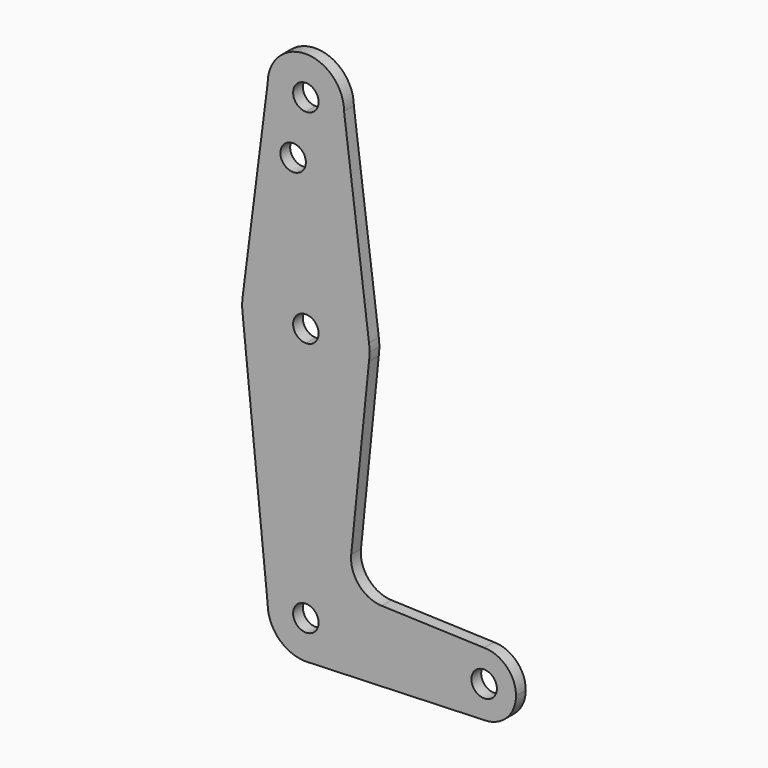
from build123d import *

# Parameters (mm, degrees)
F0_R     = 3.175
F1_DEPTH = 3.048


with BuildPart() as f1:
    # F0 (on Front) → F1 (new body)
    with BuildSketch(Plane.XZ):
        with BuildLine():
            ThreePointArc((3.175, 0), (-2.2450640303, -2.2450640303), (0, 3.175))
            Line((0, 3.175), (0, 9.525))
            ThreePointArc((0, 9.525), (-6.7351920908, 6.7351920908), (-9.525, 0))
            ThreePointArc((-9.525, 0), (-6.7351920908, -6.7351920908), (0, -9.525))
            Line((0, -9.525), (0.6794904459, -9.5007324841))
            ThreePointArc((0.6794904459, -9.5007324841), (6.9712901065, -6.4905114784), (9.525, 0))
            Line((9.525, 0), (3.175, 0))
        make_face()
        with BuildLine():
            ThreePointArc((-9.525, 0), (-6.7351920908, 6.7351920908), (0, 9.525))
            Line((0, 9.525), (0, 47.625))
            ThreePointArc((0, 47.625), (-10.4912828548, 51.5857812233), (-15.7474569047, 61.4917106696))
            Line((-15.7474569047, 61.4917106696), (-9.525, 0))
        make_face()
        with BuildLine():
            Line((0, 47.625), (0, 9.525))
            ThreePointArc((0, 9.525), (6.7351920908, 6.7351920908), (9.525, 0))
            Line((9.525, 0), (36.5125, 0))
            ThreePointArc((36.5125, 0), (38.8373399243, 5.6126600757), (44.45, 7.9375))
            Line((44.45, 7.9375), (18.9314618746, 8.8488763616))
            ThreePointArc((18.9314618746, 8.8488763616), (13.2231606618, 11.5689803321), (11.3054108743, 17.5944184156))
            Line((11.3054108743, 17.5944184156), (15.7474569047, 61.4917106696))
            ThreePointArc((15.7474569047, 61.4917106696), (10.4912828548, 51.5857812233), (0, 47.625))
        make_face()
        with BuildLine():
            Line((36.5125, 0), (9.525, 0))
            ThreePointArc((9.525, 0), (6.9712901065, -6.4905114784), (0.6794904459, -9.5007324841))
            Line((0.6794904459, -9.5007324841), (44.45, -7.9375))
            ThreePointArc((44.45, -7.9375), (38.8373399243, -5.6126600757), (36.5125, 0))
        make_face()
        with BuildLine():
            ThreePointArc((-15.7474569047, 61.4917106696), (-10.4912828548, 51.5857812233), (0, 47.625))
            Line((0, 47.625), (0, 60.325))
            ThreePointArc((0, 60.325), (-3.175, 63.5), (0, 66.675))
            Line((0, 66.675), (0, 79.375))
            ThreePointArc((0, 79.375), (-10.4912828548, 75.4142187767), (-15.7474569047, 65.5082893304))
            Line((-15.7474569047, 65.5082893304), (-15.7474569047, 61.4917106696))
        make_face()
        with BuildLine():
            Line((0, 60.325), (0, 47.625))
            ThreePointArc((0, 47.625), (10.4912828548, 51.5857812233), (15.7474569047, 61.4917106696))
            ThreePointArc((15.7474569047, 61.4917106696), (15.8430821396, 62.4938323604), (15.875, 63.5))
            ThreePointArc((15.875, 63.5), (15.8430821396, 64.5061676396), (15.7474569047, 65.5082893304))
            ThreePointArc((15.7474569047, 65.5082893304), (10.4912828548, 75.4142187767), (0, 79.375))
            Line((0, 79.375), (0, 66.675))
            ThreePointArc((0, 66.675), (2.2450640303, 65.7450640303), (3.175, 63.5))
            ThreePointArc((3.175, 63.5), (2.2450640303, 61.2549359697), (0, 60.325))
        make_face()
        with BuildLine():
            ThreePointArc((44.45, 7.9375), (38.8373399243, 5.6126600757), (36.5125, 0))
            ThreePointArc((36.5125, 0), (38.8373399243, -5.6126600757), (44.45, -7.9375))
            ThreePointArc((44.45, -7.9375), (50.0626600757, -5.6126600757), (52.3875, 0))
            ThreePointArc((52.3875, 0), (50.0626600757, 5.6126600757), (44.45, 7.9375))
        make_face()
        with BuildLine():
            ThreePointArc((47.625, 0), (44.45, -3.175), (41.275, 0))
            ThreePointArc((41.275, 0), (44.45, 3.175), (47.625, 0))
        make_face(mode=Mode.SUBTRACT)
        with BuildLine():
            ThreePointArc((0, -9.525), (0.3399618281, -9.5189311877), (0.6794904459, -9.5007324841))
            Line((0.6794904459, -9.5007324841), (0, -9.525))
        make_face()
        with BuildLine():
            ThreePointArc((-15.7474569047, 65.5082893304), (-15.875, 63.5), (-15.7474569047, 61.4917106696))
            Line((-15.7474569047, 61.4917106696), (-15.7474569047, 65.5082893304))
        make_face()
        with BuildLine():
            Line((-9.525, 114.3), (-15.7474569047, 65.5082893304))
            ThreePointArc((-15.7474569047, 65.5082893304), (-10.4912828548, 75.4142187767), (0, 79.375))
            Line((0, 79.375), (0, 100.0252))
            Line((0, 100.0252), (0, 104.775))
            ThreePointArc((0, 104.775), (-6.7351920908, 107.5648079092), (-9.525, 114.3))
        make_face()
        with Locations((-3.175, 100.0252)):
            Circle(F0_R, mode=Mode.SUBTRACT)
        with BuildLine():
            Line((0, 100.0252), (0, 79.375))
            ThreePointArc((0, 79.375), (10.4912828548, 75.4142187767), (15.7474569047, 65.5082893304))
            Line((15.7474569047, 65.5082893304), (9.525, 114.3))
            ThreePointArc((9.525, 114.3), (6.7351920908, 107.5648079092), (0, 104.775))
            Line((0, 104.775), (0, 100.0252))
        make_face()
        with BuildLine():
            ThreePointArc((9.525, 114.3), (0, 123.825), (-9.525, 114.3))
            ThreePointArc((-9.525, 114.3), (-6.7351920908, 107.5648079092), (0, 104.775))
            ThreePointArc((0, 104.775), (6.7351920908, 107.5648079092), (9.525, 114.3))
        make_face()
        with BuildLine():
            ThreePointArc((3.175, 114.3), (2.2450640303, 112.0549359697), (0, 111.125))
            ThreePointArc((0, 111.125), (-2.2450640303, 116.5450640303), (3.175, 114.3))
        make_face(mode=Mode.SUBTRACT)
        with BuildLine():
            Line((0, 9.525), (0, 3.175))
            ThreePointArc((0, 3.175), (2.2450640303, 2.2450640303), (3.175, 0))
            Line((3.175, 0), (9.525, 0))
            ThreePointArc((9.525, 0), (6.7351920908, 6.7351920908), (0, 9.525))
        make_face()
    extrude(amount=F1_DEPTH)


solid = f1.part
